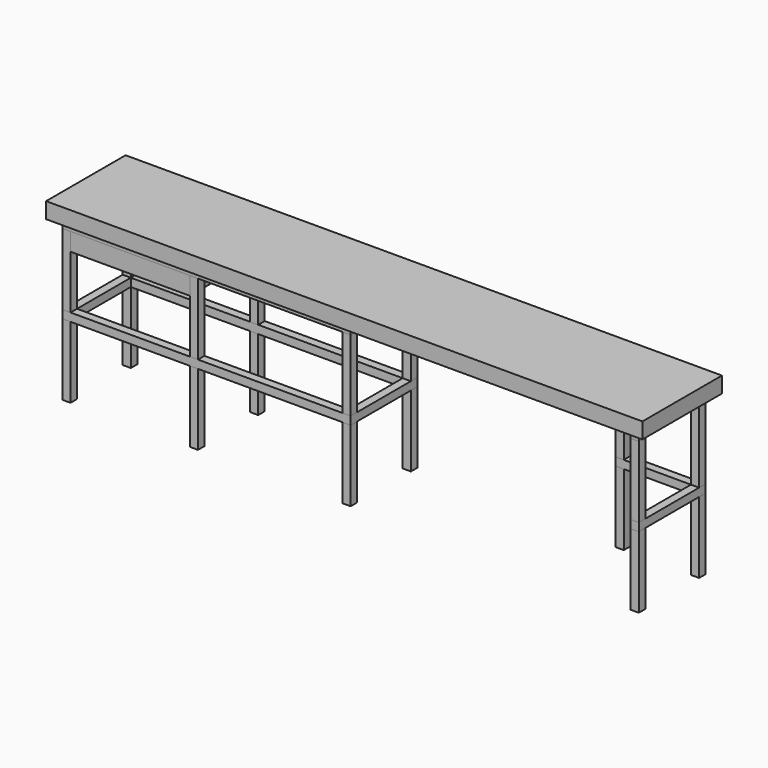
from build123d import *

# Parameters (mm, degrees)
F0_W      = 3000
F0_H      = 500
F1_DEPTH  = 80
F2_W      = 41
F2_H      = 41
F3_DEPTH  = 800
F4_W      = 1450
F4_H      = 420
F4_W_2    = 1368
F4_H_2    = 338
F5_DEPTH  = 41
F6_START  = -400
F6_DEPTH  = 41
F7_W      = 600
F7_H      = 89.75
F8_DEPTH  = 450
F9_W      = 560
F9_H      = 410
F10_DEPTH = 80


with BuildPart() as f1:
    # F0 (on Top) → F1 (new body)
    with BuildSketch(Plane.XY):
        with Locations((1500, 250)):
            Rectangle(F0_W, F0_H)
    extrude(amount=F1_DEPTH)


with BuildPart() as f3:
    # F2 (on face) → F3 (new body)
    with BuildSketch(Plane(origin=(0, 0, 0), x_dir=(1, 0, 0), z_dir=(0, 0, -1))):
        with Locations((70.5, -60.5)):
            Rectangle(F2_W, F2_H)
    extrude(amount=F3_DEPTH)


with BuildPart() as f3b:
    # F2 (on face) → F3, piece 2 (new body)
    with BuildSketch(Plane(origin=(0, 0, 0), x_dir=(1, 0, 0), z_dir=(0, 0, -1))):
        with Locations((70.5, -439.5)):
            Rectangle(F2_W, F2_H)
    extrude(amount=F3_DEPTH)


with BuildPart() as f3c:
    # F2 (on face) → F3, piece 3 (new body)
    with BuildSketch(Plane(origin=(0, 0, 0), x_dir=(1, 0, 0), z_dir=(0, 0, -1))):
        with Locations((2929.5, -60.5)):
            Rectangle(F2_W, F2_H)
    extrude(amount=F3_DEPTH)


with BuildPart() as f3d:
    # F2 (on face) → F3, piece 4 (new body)
    with BuildSketch(Plane(origin=(0, 0, 0), x_dir=(1, 0, 0), z_dir=(0, 0, -1))):
        with Locations((2929.5, -439.5)):
            Rectangle(F2_W, F2_H)
    extrude(amount=F3_DEPTH)


with BuildPart() as f3e:
    # F2 (on face) → F3, piece 5 (new body)
    with BuildSketch(Plane(origin=(0, 0, 0), x_dir=(1, 0, 0), z_dir=(0, 0, -1))):
        with Locations((1479.5, -439.5)):
            Rectangle(F2_W, F2_H)
    extrude(amount=F3_DEPTH)


with BuildPart() as f3f:
    # F2 (on face) → F3, piece 6 (new body)
    with BuildSketch(Plane(origin=(0, 0, 0), x_dir=(1, 0, 0), z_dir=(0, 0, -1))):
        with Locations((1479.5, -60.5)):
            Rectangle(F2_W, F2_H)
    extrude(amount=F3_DEPTH)


with BuildPart() as f3g:
    # F2 (on face) → F3, piece 7 (new body)
    with BuildSketch(Plane(origin=(0, 0, 0), x_dir=(1, 0, 0), z_dir=(0, 0, -1))):
        with Locations((2550.5, -439.5)):
            Rectangle(F2_W, F2_H)
    extrude(amount=F3_DEPTH)


with BuildPart() as f3h:
    # F2 (on face) → F3, piece 8 (new body)
    with BuildSketch(Plane(origin=(0, 0, 0), x_dir=(1, 0, 0), z_dir=(0, 0, -1))):
        with Locations((711.5, -60.5)):
            Rectangle(F2_W, F2_H)
    extrude(amount=F3_DEPTH)


with BuildPart() as f3i:
    # F2 (on face) → F3, piece 9 (new body)
    with BuildSketch(Plane(origin=(0, 0, 0), x_dir=(1, 0, 0), z_dir=(0, 0, -1))):
        with Locations((711.5, -439.5)):
            Rectangle(F2_W, F2_H)
    extrude(amount=F3_DEPTH)


with BuildPart() as f5:
    # F4 (on face) → F5 (new body)
    with BuildSketch(Plane.XY):
        with Locations((775, 250)):
            Rectangle(F4_W, F4_H)
        with Locations((775, 250)):
            Rectangle(F4_W_2, F4_H_2, mode=Mode.SUBTRACT)
    extrude(amount=-F5_DEPTH)


with BuildPart() as f5b:
    # F4 (on face) → F5, piece 2 (new body)
    with BuildSketch(Plane.XY):
        Polygon((2909, 40), (2950, 40), (2950, 419), (2950, 460), (2909, 460), (2530, 460), (2530, 419), (2909, 419), align=None)
    extrude(amount=-F5_DEPTH)


with BuildPart() as f6:
    # F4 (on face) → F6 (new body)
    with BuildSketch(Plane.XY.offset(F6_START)):
        with Locations((775, 250)):
            Rectangle(F4_W, F4_H)
        with Locations((775, 250)):
            Rectangle(F4_W_2, F4_H_2, mode=Mode.SUBTRACT)
    extrude(amount=-F6_DEPTH)


with BuildPart() as f6b:
    # F4 (on face) → F6, piece 2 (new body)
    with BuildSketch(Plane.XY.offset(F6_START)):
        Polygon((2909, 40), (2950, 40), (2950, 419), (2950, 460), (2909, 460), (2530, 460), (2530, 419), (2909, 419), align=None)
    extrude(amount=-F6_DEPTH)


with BuildPart() as f8:
    # F7 (on face) → F8 (new body)
    with BuildSketch(Plane.XZ.offset(-40)):
        with Locations((391, -85.875)):
            Rectangle(F7_W, F7_H)
    extrude(amount=-F8_DEPTH)

    # F9 (on face) → F10 (cut)
    with BuildSketch(Plane.XY.offset(-41)):
        with Locations((391, 265)):
            Rectangle(F9_W, F9_H)
    extrude(amount=-F10_DEPTH, mode=Mode.SUBTRACT)


solid = Compound([f1.part, f3.part, f3b.part, f3c.part, f3d.part, f3e.part, f3f.part, f3g.part, f3h.part, f3i.part, f5.part, f5b.part, f6.part, f6b.part, f8.part])
